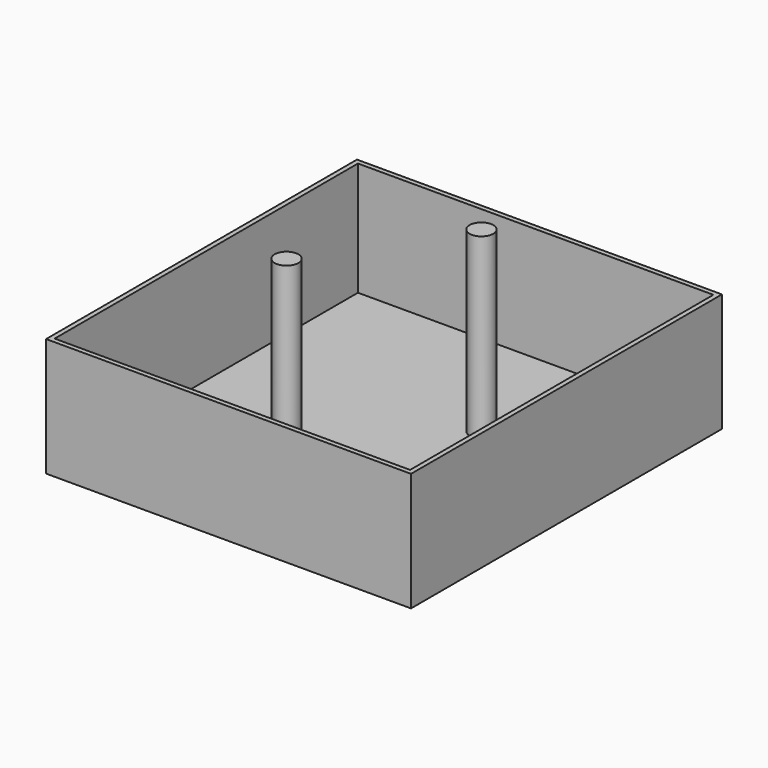
from build123d import *

# Parameters (mm, degrees)
F1_DEPTH = 63.5
F2_T     = -2.54
F3_R     = 6.35
F4_DEPTH = 95.25


with BuildPart() as f1:
    # F0 (on Top) → F1 (new body)
    with BuildSketch(Plane.XY):
        Polygon((97.79, 104.14), (0, 104.14), (-97.79, 104.14), (-97.79, -104.14), (97.79, -104.14), (97.79, 0), align=None)
    extrude(amount=F1_DEPTH)

    # F2
    f2_openings = [f1.faces().sort_by_distance(p)[0] for p in [
        (0, 0, 63.5),
    ]]
    offset(amount=F2_T, openings=f2_openings)

    # F3 (on face) → F4 (join)
    with BuildSketch(Plane.XY.offset(2.54)):
        with Locations((23.5758665949, 35.8260651119)):
            Circle(F3_R)
        with Locations((-23.5758665949, -35.8260651119)):
            Circle(F3_R)
    extrude(amount=F4_DEPTH)


solid = f1.part
